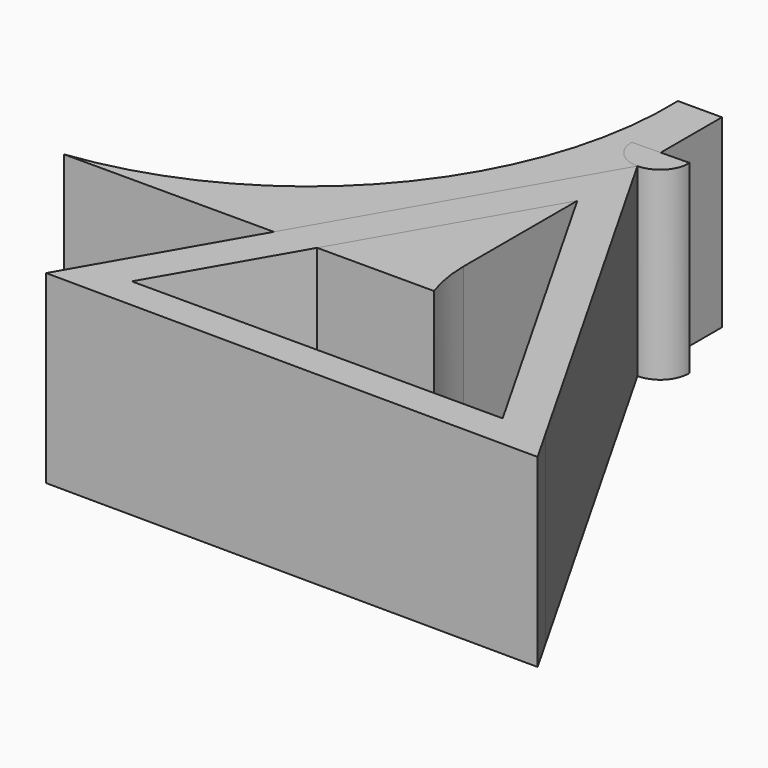
from build123d import *

# Parameters (mm, degrees)
F1_DEPTH = 50
F3_DEPTH = 50


with BuildPart() as f1:
    # F0 (on Top) → F1 (new body)
    with BuildSketch(Plane.XY):
        with BuildLine():
            Line((0, 0), (0, 87.294715))
            Line((0, 87.294715), (-11.90007, 87.294715))
            ThreePointArc((-11.90007, 87.294715), (-35.445624, 20.587596), (-97.862103, -12.705285))
            Line((-97.862103, -12.705285), (2.137897, -12.705285))
            ThreePointArc((2.137897, -12.705285), (0.538205, -6.44195), (0, 0))
        make_face()
    extrude(amount=F1_DEPTH)


with BuildPart() as f3:
    # F2 (on Top) → F3 (new body)
    with BuildSketch(Plane.XY):
        Polygon((66.623631, -58.285341), (61.410546, -49.128443), (0, 58.740522), (-66.922144, -57.462403), align=None)
        Polygon((49.850918, -49.128443), (-50.428901, -49.128443), (0, 38.435783), align=None, mode=Mode.SUBTRACT)
        with BuildLine():
            ThreePointArc((-7.727374, 66.467896), (-5.464079, 61.003818), (0, 58.740522))
            ThreePointArc((0, 58.740522), (5.564018, 61.10562), (7.722107, 66.753154))
            Line((7.722107, 66.753154), (-7.727374, 66.467896))
        make_face()
    extrude(amount=F3_DEPTH)


solid = Compound([f1.part, f3.part])
